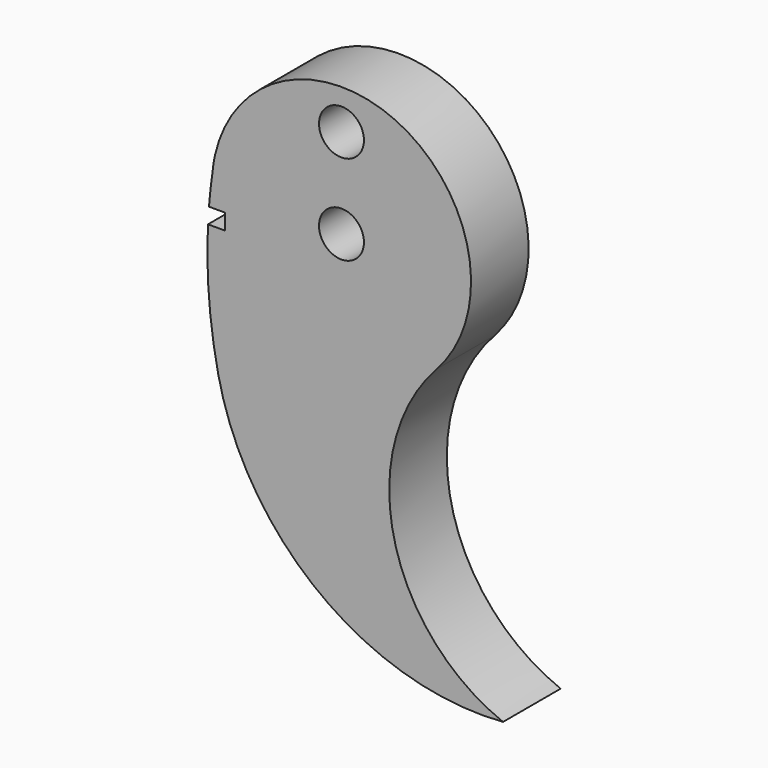
from build123d import *

# Parameters (mm, degrees)
F0_R     = 1.9812
F1_DEPTH = 6.35


with BuildPart() as f1:
    # F0 (on Front) → F1 (new body)
    with BuildSketch(Plane.XZ):
        with BuildLine():
            ThreePointArc((14.253808, -33.253746), (4.616752, -22.035123), (8.410208, -7.740368))
            ThreePointArc((8.410208, -7.740368), (5.333847, 10.109153), (-11.136623, 2.573038))
            ThreePointArc((-11.136623, 2.573038), (-11.266044, 1.809935), (-11.382158, 1.044694))
            ThreePointArc((-11.382158, 1.044694), (-11.555034, -0.315042), (-11.685903, -1.679462))
            Line((-11.685903, -1.679462), (-10.288903, -1.679462))
            Line((-10.288903, -1.679462), (-10.288903, -3.076462))
            Line((-10.288903, -3.076462), (-11.776074, -3.076462))
            ThreePointArc((-11.776074, -3.076462), (-11.686165, -8.798735), (-10.861781, -14.462027))
            ThreePointArc((-10.861781, -14.462027), (-1.837779, -28.580887), (14.253808, -33.253746))
        make_face()
        Circle(F0_R, mode=Mode.SUBTRACT)
        with Locations((0, 7.9248)):
            Circle(F0_R, mode=Mode.SUBTRACT)
        with BuildLine():
            ThreePointArc((-11.382158, 1.044694), (-11.266044, 1.809935), (-11.136623, 2.573038))
            ThreePointArc((-11.136623, 2.573038), (-11.285293, 1.813028), (-11.382158, 1.044694))
        make_face()
    extrude(amount=F1_DEPTH)


solid = f1.part
